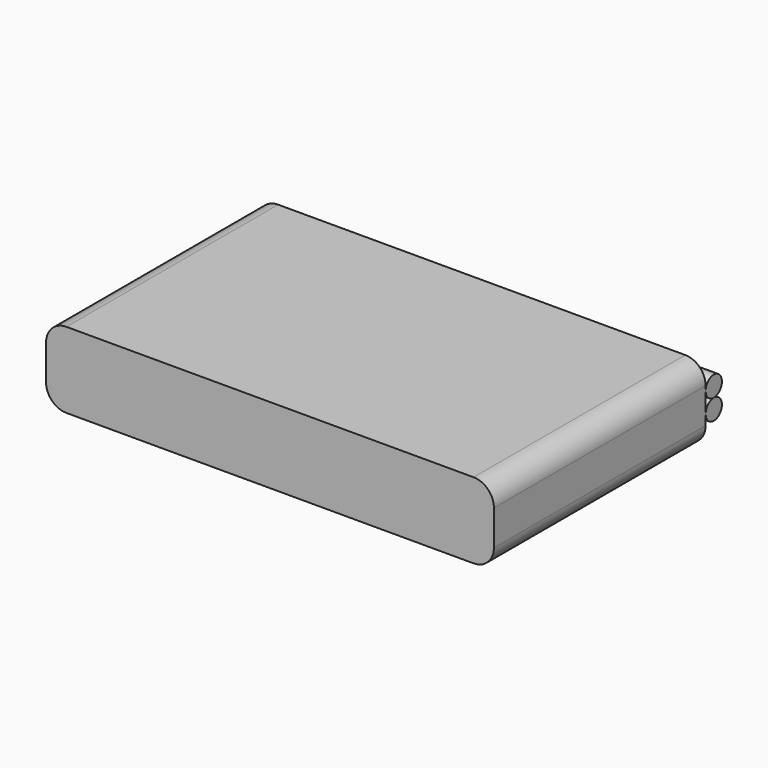
from build123d import *

# Parameters (mm, degrees)
SKETCH_W                = 44
SKETCH_H                = 26
PAD_DEPTH               = 7.45
FILLET_R                = 2
FILLET001_R             = 2
CYLINDER_R              = 1
CYLINDER_DEPTH          = 44
CYLINDER_PITCH_ANGLE    = 90
FILLET002_R             = 0.5
CYLINDER001_R           = 1
CYLINDER001_DEPTH       = 44
CYLINDER001_PITCH_ANGLE = 90
FILLET003_R             = 0.5


with BuildPart() as fillet001:
    # Sketch → Pad (new body)
    with BuildSketch(Plane.XY):
        with Locations((22, 13)):
            Rectangle(SKETCH_W, SKETCH_H)
    extrude(amount=PAD_DEPTH)

    # Fillet
    fillet_edges = [fillet001.edges().sort_by_distance(p)[0] for p in [
        (44, 13, 0),
        (44, 13, 7.45),
    ]]
    fillet(fillet_edges, radius=FILLET_R)

    # Fillet001
    fillet001_edges = [fillet001.edges().sort_by_distance(p)[0] for p in [
        (0, 13, 7.45),
        (0, 13, 0),
    ]]
    fillet(fillet001_edges, radius=FILLET001_R)


with BuildPart() as fillet002:
    # Cylinder → Cylinder (new body)
    with BuildSketch(Plane.XY):
        Circle(CYLINDER_R)
    extrude(amount=CYLINDER_DEPTH)


with BuildPart() as fillet002_1:
    # Cylinder pitch: moved
    add(fillet002.part.rotate(Axis((0, 0, 0), (0, 1, 0)), CYLINDER_PITCH_ANGLE))


with BuildPart() as fillet002_2:
    # Cylinder placement: moved
    add(fillet002_1.part.moved(Location((0, 27, 5))))

    # Fillet002
    fillet002_edges = [fillet002_2.edges().sort_by_distance(p)[0] for p in [
        (0, 27, 6),
    ]]
    fillet(fillet002_edges, radius=FILLET002_R)


with BuildPart() as fillet003:
    # Cylinder001 → Cylinder001 (new body)
    with BuildSketch(Plane.XY):
        Circle(CYLINDER001_R)
    extrude(amount=CYLINDER001_DEPTH)


with BuildPart() as fillet003_1:
    # Cylinder001 pitch: moved
    add(fillet003.part.rotate(Axis((0, 0, 0), (0, 1, 0)), CYLINDER001_PITCH_ANGLE))


with BuildPart() as fillet003_2:
    # Cylinder001 placement: moved
    add(fillet003_1.part.moved(Location((0, 27, 3))))

    # Fillet003
    fillet003_edges = [fillet003_2.edges().sort_by_distance(p)[0] for p in [
        (0, 27, 4),
    ]]
    fillet(fillet003_edges, radius=FILLET003_R)


solid = Compound([fillet001.part, fillet002_2.part, fillet003_2.part])
